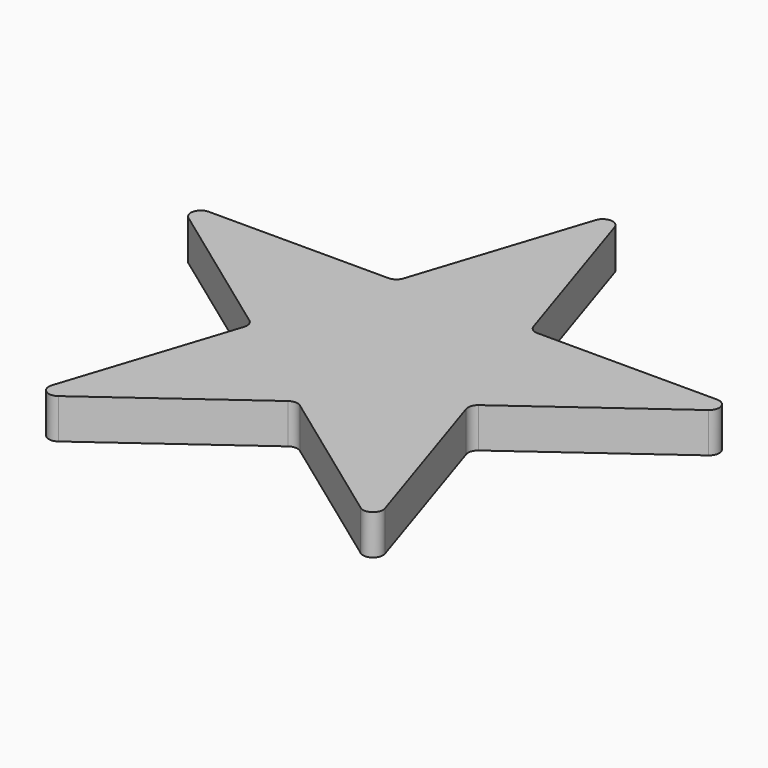
from build123d import *

# Parameters (mm, degrees)
F1_DEPTH = 2
F2_R     = 0.5
F3_R     = 0.5


with BuildPart() as f1:
    # F0 (on Top) → F1 (new body)
    with BuildSketch(Plane.XY):
        Polygon((3.36771, 4.635255), (0, 15), (-3.36771, 4.635255), (-14.265848, 4.635255), (-5.449069, -1.77051), (-8.816779, -12.135255), (0, -5.72949), (8.816779, -12.135255), (5.449069, -1.77051), (14.265848, 4.635255), align=None)
    extrude(amount=F1_DEPTH)

    # F2
    f2_edges = [f1.edges().sort_by_distance(p)[0] for p in [
        (0, 15, 1),
        (-14.265848, 4.635255, 1),
        (14.265848, 4.635255, 1),
        (8.816779, -12.135255, 1),
        (-8.816779, -12.135255, 1),
    ]]
    fillet(f2_edges, radius=F2_R)

    # F3
    f3_edges = [f1.edges().sort_by_distance(p)[0] for p in [
        (0, -5.72949, 1),
        (5.449069, -1.77051, 1),
        (3.36771, 4.635255, 1),
        (-3.36771, 4.635255, 1),
        (-5.449069, -1.77051, 1),
    ]]
    fillet(f3_edges, radius=F3_R)


solid = f1.part
